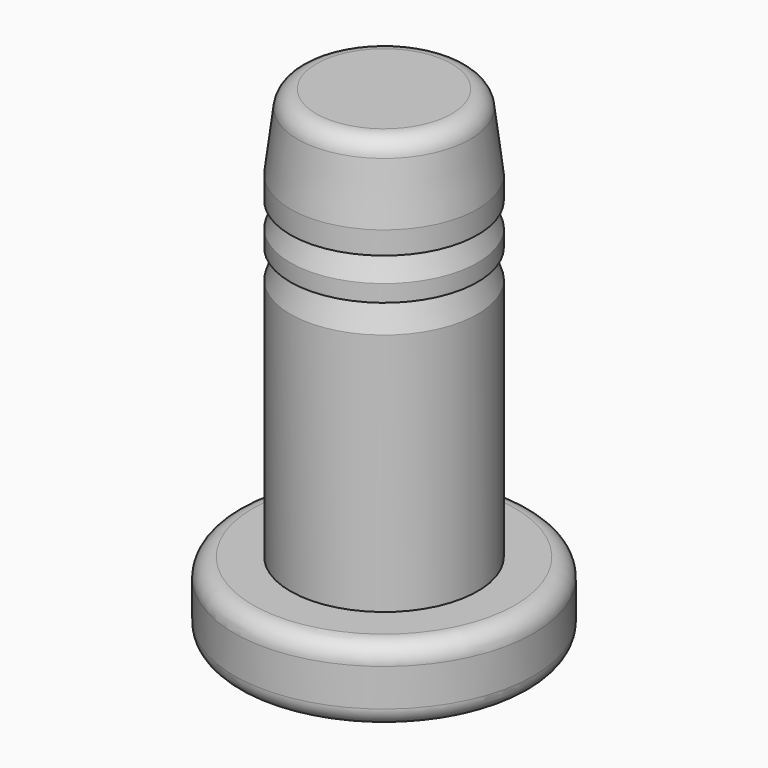
from build123d import *

# Parameters (mm, degrees)
F2_R = 0.5
F3_R = 0.5


with BuildPart() as f1:
    # F0 (on Front) → F1 (revolve)
    with BuildSketch(Plane.XZ):
        Polygon((-4, -2.349634), (0, -2.349634), (0, 10.650366), (-2.25, 10.650366), (-2.5, 8.6337), (-2.5, 8.0287), (-2.25, 8.0287), (-2.5, 7.373284), (-2.5, 6.919534), (-2.25, 6.919534), (-2.5, 6.163284), (-2.5, -0.349634), (-4, -0.349634), align=None)
    revolve(axis=Axis((0, 0, 3.269001), (0, 0, 1)))

    # F2
    f2_edges = [f1.edges().sort_by_distance(p)[0] for p in [
        (4, 0, -2.349634),
    ]]
    fillet(f2_edges, radius=F2_R)

    # F3
    f3_edges = [f1.edges().sort_by_distance(p)[0] for p in [
        (2.25, 0, 10.650366),
        (4, 0, -0.349634),
    ]]
    fillet(f3_edges, radius=F3_R)


solid = f1.part
